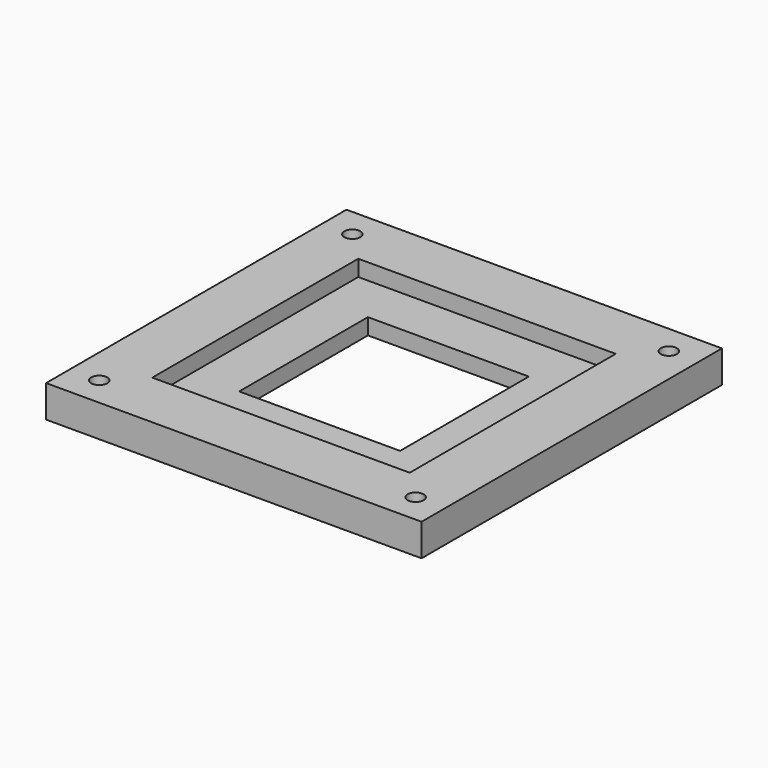
from build123d import *

# Parameters (mm, degrees)
SKETCH_W        = 35
SKETCH_H        = 35
PAD_DEPTH       = 3
SKETCH001_W     = 24
SKETCH001_H     = 24
POCKET_DEPTH    = 1.5
SKETCH002_W     = 15
SKETCH002_H     = 15
POCKET001_DEPTH = 1.5
SKETCH003_R     = 0.75
POCKET002_DEPTH = 3


with BuildPart() as part:
    # Sketch → Pad (new body)
    with BuildSketch(Plane.XY):
        with Locations((17.5, 17.5)):
            Rectangle(SKETCH_W, SKETCH_H)
    extrude(amount=PAD_DEPTH)

    # Sketch001 (on Face6 of Pad) → Pocket (cut)
    with BuildSketch(Plane.XY.offset(3)):
        with Locations((17.5, 17.5)):
            Rectangle(SKETCH001_W, SKETCH001_H)
    extrude(amount=-POCKET_DEPTH, mode=Mode.SUBTRACT)

    # Sketch002 (on Face11 of Pocket) → Pocket001 (cut)
    with BuildSketch(Plane.XY.offset(1.5)):
        with Locations((17.5, 17.5)):
            Rectangle(SKETCH002_W, SKETCH002_H)
    extrude(amount=-POCKET001_DEPTH, mode=Mode.SUBTRACT)

    # Sketch003 (on Face5 of Pocket001) → Pocket002 (cut)
    with BuildSketch(Plane.XY.offset(3)):
        with Locations((2.75, 32.25)):
            Circle(SKETCH003_R)
        with Locations((32.25, 32.25)):
            Circle(SKETCH003_R)
        with Locations((32.25, 2.75)):
            Circle(SKETCH003_R)
        with Locations((2.75, 2.75)):
            Circle(SKETCH003_R)
    extrude(amount=-POCKET002_DEPTH, mode=Mode.SUBTRACT)


solid = part.part
